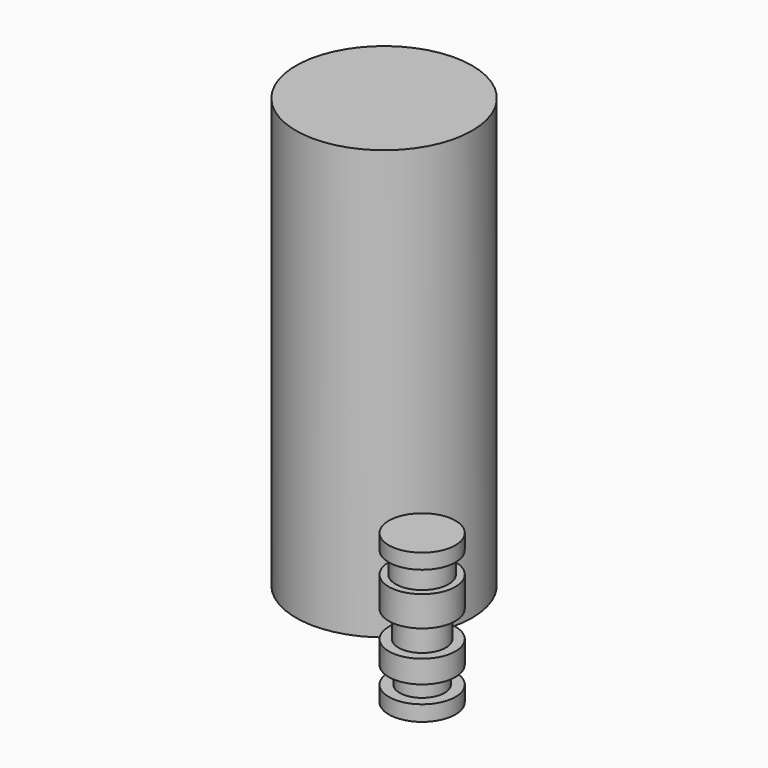
from build123d import *

# Parameters (mm, degrees)
F0_R     = 26.086896
F1_DEPTH = 127


with BuildPart() as f1:
    # F0 (on Top) → F1 (new body)
    with BuildSketch(Plane.XY):
        with Locations((-43.438002, 40.215183)):
            Circle(F0_R)
    extrude(amount=F1_DEPTH)


with BuildPart() as f3:
    # F2 (on Right) → F3 (revolve)
    with BuildSketch(Plane.YZ):
        Polygon((0, 44.125024), (0, 0), (9.869096, 0), (9.869096, 4.587108), (6.644674, 4.587108), (6.644674, 9.765715), (9.869096, 9.765715), (9.869096, 16.474364), (6.997761, 16.474364), (6.997761, 24.359971), (9.869096, 24.359971), (9.869096, 33.304837), (7.82163, 33.304837), (7.82163, 39.660398), (9.869096, 39.660398), (9.869096, 44.125024), align=None)
    revolve(axis=Axis((0, 0, 22.062512), (0, 0, 1)))


solid = Compound([f1.part, f3.part])
